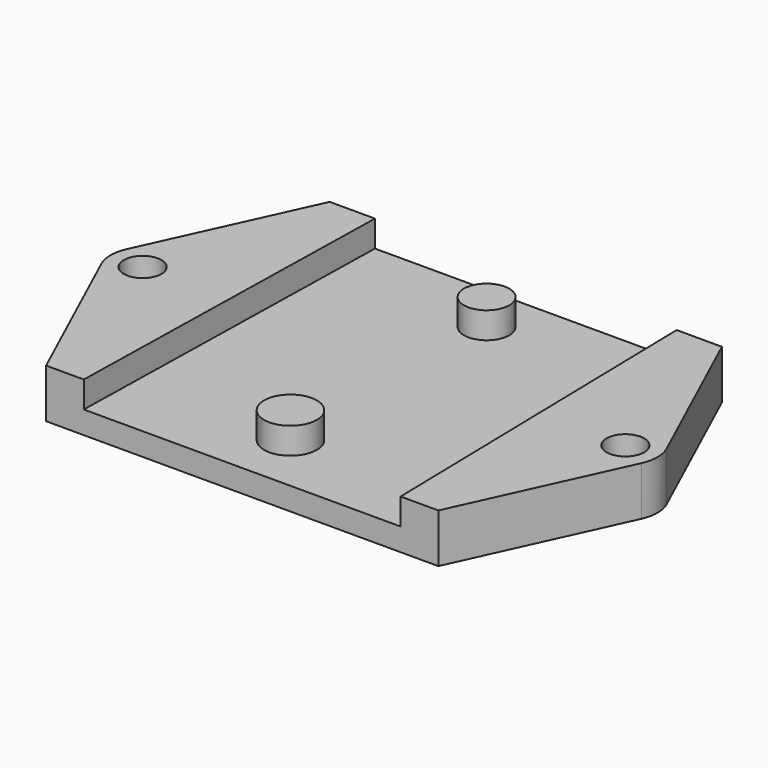
from build123d import *

# Parameters (mm, degrees)
F0_R     = 2.5
F0_R_2   = 3.5
F0_R_3   = 3
F1_DEPTH = 6.5
F2_DEPTH = 3.5
F3_R     = 5


with BuildPart() as f1:
    # F0 (on Top) → F1 (new body)
    with BuildSketch(Plane.XY):
        Polygon((-16.702011, 19.474821), (-22.702011, 19.474821), (-33.452011, -4.025179), (-22.702011, -27.525179), (-17.702011, -27.525179), align=None)
        with Locations((-28.702011, -4.025179)):
            Circle(F0_R, mode=Mode.SUBTRACT)
        Polygon((23.297989, 19.474821), (-16.702011, 19.474821), (-17.702011, -27.525179), (24.297989, -27.525179), align=None)
        with Locations((3.297989, -19.525179)):
            Circle(F0_R_2, mode=Mode.SUBTRACT)
        with Locations((3.297989, 12.974821)):
            Circle(F0_R_3, mode=Mode.SUBTRACT)
        Polygon((29.297989, 19.474821), (23.297989, 19.474821), (24.297989, -27.525179), (29.297989, -27.525179), (40.047989, -4.025179), align=None)
        with Locations((35.297989, -4.025179)):
            Circle(F0_R, mode=Mode.SUBTRACT)
        with Locations((3.297989, 12.974821)):
            Circle(F0_R_3)
        with Locations((3.297989, -19.525179)):
            Circle(F0_R_2)
    extrude(amount=-F1_DEPTH)

    # F0 (on Top) → F2 (cut)
    with BuildSketch(Plane.XY):
        Polygon((23.297989, 19.474821), (-16.702011, 19.474821), (-17.702011, -27.525179), (24.297989, -27.525179), align=None)
        with Locations((3.297989, -19.525179)):
            Circle(F0_R_2, mode=Mode.SUBTRACT)
        with Locations((3.297989, 12.974821)):
            Circle(F0_R_3, mode=Mode.SUBTRACT)
    extrude(amount=-F2_DEPTH, mode=Mode.SUBTRACT)

    # F3
    f3_edges = [f1.edges().sort_by_distance(p)[0] for p in [
        (-33.452011, -4.025179, -3.25),
        (40.047989, -4.025179, -3.25),
    ]]
    fillet(f3_edges, radius=F3_R)


solid = f1.part
